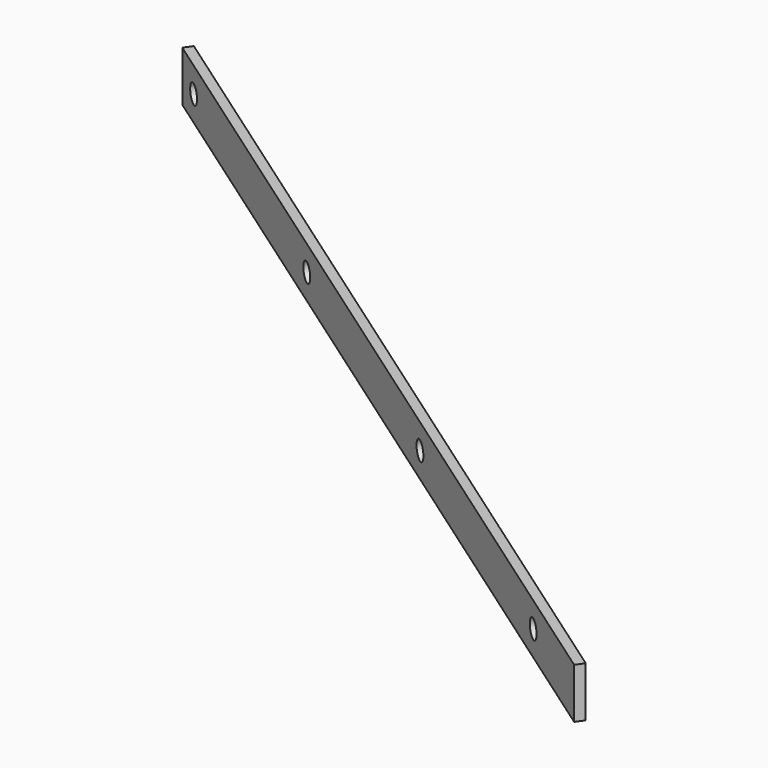
from build123d import *

# Parameters (mm, degrees)
PAD006_DEPTH           = 32
SKETCH016_R            = 6
POCKET006_DEPTH        = 331.323772
LINEARPATTERN004_COUNT = 4
LINEARPATTERN004_PITCH = 200


with BuildPart() as part:
    # Sketch013 → Pad006 (new body)
    with BuildSketch(Plane.XY):
        Polygon((-556.862366, 411.885088), (10.320579, 14.739314), (13.762038, 19.654226), (-553.420907, 416.8), align=None)
    extrude(amount=PAD006_DEPTH)

    # Sketch016 (on Face1 of Pad006) → Pocket006 (cut, through all)
    with BuildSketch(Plane(origin=(10.320579, 14.739314, 0), x_dir=(0.819152, -0.573576, 0), z_dir=(-0.573576, -0.819152, 0))):
        with Locations((-672.402526, 16)):
            Circle(SKETCH016_R)
    pocket006 = extrude(amount=-POCKET006_DEPTH, mode=Mode.SUBTRACT)

    # LinearPattern004: Pocket006 ×4
    with Locations(*[Vector(0.819152, -0.573576, 0) * (i * LINEARPATTERN004_PITCH) for i in range(1, LINEARPATTERN004_COUNT)]):
        add(pocket006, mode=Mode.SUBTRACT)


with BuildPart() as part_1:
    # Body005 placement: moved
    add(part.part.moved(Location((0, 0, 9))))


solid = part_1.part
